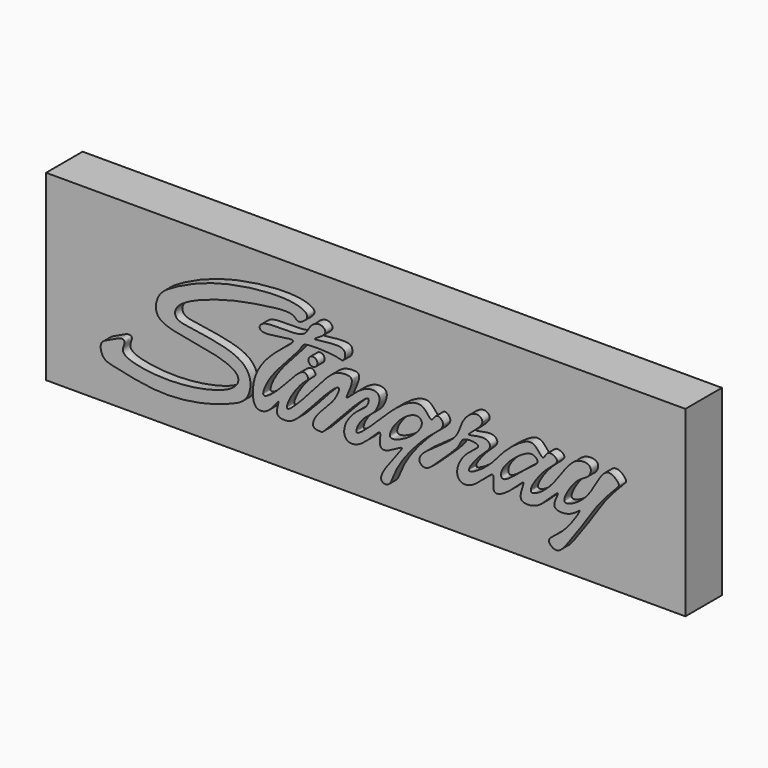
from build123d import *

# Parameters (mm, degrees)
F1_W     = 177.8
F1_H     = 50.8
F2_DEPTH = 12.7
F3_T     = -2.54
F0_R     = 1.2413300558
F4_DEPTH = 2.54


with BuildPart() as f2:
    # F1 (on Front) → F2 (new body)
    with BuildSketch(Plane.XZ):
        with Locations((-88.9, 25.4)):
            Rectangle(F1_W, F1_H)
    extrude(amount=-F2_DEPTH)

    # F3
    f3_openings = [f2.faces().sort_by_distance(p)[0] for p in [
        (-88.9, 12.7, 25.4),
    ]]
    offset(amount=F3_T, openings=f3_openings)

    # F0 (on Front) → F4 (join)
    with BuildSketch(Plane.XZ):
        with BuildLine():
            add(Edge.make_bspline(
                [(-104.3626591563, 39.3112227321), (-103.7464901324, 39.7168534696), (-102.1441748093, 41.3315299913), (-107.9765028263, 44.2340611148), (-127.2818595136, 42.2160057549), (-139.7192136137, 36.5066004827), (-144.8045294703, 33.1999416806), (-145.8068486745, 27.7119328448), (-140.9929955038, 24.944924972), (-129.4711551531, 23.8536356186), (-121.6287334048, 20.8410199958), (-122.8097692008, 16.4656558472), (-131.8171462781, 13.2657467953), (-144.6500010629, 12.2341874259), (-155.7603288756, 14.5867461516), (-153.6289203084, 17.8270999649), (-154.4783863539, 19.215515211), (-157.9759955095, 17.3326092607), (-161.1267632531, 16.1032587025), (-160.1215000899, 11.8792390024), (-156.2220330164, 11.0881015403), (-143.8786655043, 8.2067439366), (-131.536304938, 10.0620059008), (-124.6698706344, 12.482464089), (-119.8691279813, 14.5192178493), (-118.31060007, 19.6662353054), (-120.6177220982, 24.141546957), (-126.9275022893, 26.3340211868), (-134.564236949, 27.4227227725), (-140.3096267602, 28.14706889), (-139.6932832256, 33.3466244693), (-123.8679028515, 38.4782887729), (-115.9861533764, 39.4784040019), (-107.261685971, 40.886222851), (-105.92619372, 38.6244477757), (-104.8777434282, 38.9721371809), (-104.3626591563, 39.3112227321)],
                knots=[0, 0, 0, 0, 0.0171606316, 0.0420505679, 0.0953744946, 0.1402214985, 0.1683153916, 0.1931673735, 0.2187451545, 0.2606329857, 0.2928519595, 0.3127655675, 0.3480762812, 0.3936379312, 0.4292316559, 0.4473490645, 0.458966661, 0.481705197, 0.502842128, 0.5239459925, 0.5463735712, 0.5887403643, 0.6315346651, 0.6635040396, 0.6896314381, 0.7154568438, 0.7405684662, 0.7707506943, 0.8050652312, 0.8311203103, 0.8519324373, 0.899050446, 0.9360709618, 0.9692248828, 0.985654632, 1, 1, 1, 1], degree=3))
        make_face()
        with BuildLine():
            add(Edge.make_bspline(
                [(-107.1714684367, 33.781375736), (-108.0759665708, 34.2114106275), (-116.9034581131, 31.6463628818), (-116.1879786537, 36.7300440936), (-103.5801645612, 34.4122681368), (-102.7662659737, 39.1105459238), (-99.2846073384, 40.724904815), (-97.0376040766, 38.0737770326), (-103.1547800894, 35.4891130282), (-96.9055004938, 36.6116653895), (-92.0045486316, 36.6859619502), (-92.9103005474, 32.9324721379), (-94.5995950275, 33.9432445726), (-104.2736950267, 34.4730907211), (-104.5703866711, 32.4460956503), (-111.9160322788, 25.0468244591), (-114.8256760159, 20.4924289781), (-115.9680378699, 16.5042928682), (-110.3929619387, 20.4204478467), (-104.2962252419, 28.6871414323), (-102.5484371755, 25.5414285907), (-103.7491840528, 25.007051437), (-107.4727226073, 20.9443095212), (-110.1286126777, 14.0896504564), (-101.8509064005, 22.8054505775), (-96.4187111382, 29.5229822501), (-93.4647937461, 30.2683219283), (-89.2578403101, 30.2828796563), (-93.510842446, 23.0164441308), (-89.6708302626, 26.8170167804), (-86.2721873199, 29.2538981307), (-82.2648125771, 28.5168412918), (-83.8086168939, 23.9035160996), (-86.1264424442, 22.2399367183), (-88.71192535, 19.9971666802), (-90.4983557146, 14.9620386201), (-82.1999852748, 22.9538072335), (-76.7783775856, 28.4336057629), (-70.821526044, 30.5995250418), (-68.5719716119, 25.5324480606), (-67.2872175811, 29.3298290772), (-64.0122100212, 26.3768635124), (-70.228615982, 22.5426389445), (-78.9283920713, 12.3253882028), (-79.9013294185, 6.2615464124), (-85.0375243269, 7.763928666), (-73.5685706285, 19.8560775327), (-80.1758092903, 15.3055338167), (-83.0655149775, 14.8232247784), (-82.8782663149, 17.6503768455), (-82.6343323038, 20.4155385127), (-88.1048803826, 13.3465511967), (-93.0788503917, 13.7643781627), (-92.9483394205, 18.5806482767), (-89.0608027112, 22.6673545559), (-86.3885021297, 23.9852236654), (-85.0514010065, 29.4367945227), (-98.604857657, 13.8030093969), (-99.2141760808, 13.9659801533), (-102.0837354138, 13.9453759636), (-100.8664808015, 18.0454946505), (-95.7684232878, 21.840915773), (-93.2616821569, 27.7966340636), (-98.8348362072, 23.0683670913), (-106.137020859, 14.005454883), (-109.1758213268, 13.3559366256), (-112.3649277602, 13.8004196637), (-110.1988360947, 19.5657613929), (-113.5177063309, 13.6925179389), (-117.9910259651, 13.1885438883), (-118.512306069, 18.4279775234), (-117.1381563709, 23.9584432762), (-112.0456782971, 29.6296602451), (-106.4673284661, 33.4465991959), (-107.1714684367, 33.781375736)],
                knots=[0, 0, 0, 0, 0.0196093592, 0.0284369772, 0.0505017225, 0.063441221, 0.0751677071, 0.0845017669, 0.0970491425, 0.1099764822, 0.1241237325, 0.1340040389, 0.1423642756, 0.1623517728, 0.1711130869, 0.1921464629, 0.2088030677, 0.2185155077, 0.2336495218, 0.2540768966, 0.2625319716, 0.268951715, 0.2852937829, 0.2985814891, 0.3178259682, 0.3383765372, 0.3498303255, 0.3603346856, 0.3749852923, 0.3857700141, 0.4004480199, 0.4114675985, 0.4243722694, 0.4358435223, 0.4486723363, 0.4592977745, 0.4782949896, 0.4986679148, 0.5135187261, 0.5256899976, 0.5352036408, 0.54501703, 0.5611662827, 0.5863447971, 0.601250369, 0.6107596468, 0.632612518, 0.6451769791, 0.655808673, 0.6660713775, 0.6734760449, 0.6911883448, 0.7042492866, 0.7170117372, 0.7326716779, 0.7447352377, 0.7533416311, 0.7807996771, 0.787644086, 0.7967924664, 0.8082287092, 0.8261542058, 0.8391351362, 0.8534428742, 0.8768608204, 0.8883146074, 0.8982566604, 0.9099433295, 0.923202109, 0.9357246816, 0.9492661038, 0.9650536351, 0.9847343703, 1, 1, 1, 1], degree=3))
        make_face()
        with BuildLine():
            add(Edge.make_bspline(
                [(-79.9611136317, 18.859570846), (-80.5972341313, 19.4628371611), (-78.207160256, 24.0585435322), (-72.7817269102, 27.3423679841), (-70.455317797, 25.1037694355), (-73.7246130314, 20.5930821086), (-79.2579940503, 18.1927658), (-79.9611136317, 18.859570846)],
                knots=[0, 0, 0, 0, 0.2051884148, 0.4360639735, 0.5603256916, 0.7732002153, 1, 1, 1, 1], degree=3))
        make_face(mode=Mode.SUBTRACT)
        with Locations((-101.5538424253, 30.3581394255)):
            Circle(F0_R)
        with BuildLine():
            add(Edge.make_bspline(
                [(-71.8857795, 16.489636153), (-71.2105423118, 18.750404932), (-60.8124499585, 23.7001083857), (-60.7229412283, 29.1792405996), (-56.4212019482, 33.3160571384), (-52.8272837453, 30.4976450644), (-61.1182581878, 25.2385901982), (-53.6473467985, 27.9621627373), (-51.4267541217, 25.3047779038), (-55.2542172502, 22.803252545), (-60.210489919, 15.865544608), (-52.3425594341, 20.5414405892), (-48.9968071323, 25.3893194453), (-44.1596566164, 29.3836767927), (-39.8898251644, 31.2122933276), (-37.4607470962, 26.2842176195), (-36.5013439217, 30.2740617848), (-32.0933081958, 28.0946094985), (-37.4002852503, 25.3461170526), (-43.3740304328, 15.9252063614), (-34.2949247229, 21.0305154527), (-29.8498049576, 30.9474726389), (-23.7072285882, 30.325337836), (-24.6201579526, 26.7760428567), (-28.1581412165, 25.8653687813), (-31.7427700609, 20.2819831212), (-31.6866467667, 17.7650733739), (-24.0200387973, 21.4510527275), (-20.6829552958, 32.3523884334), (-15.9751104428, 27.9414066807), (-17.0770015109, 26.9319731914), (-22.2718338876, 21.398950418), (-24.8305635989, 17.1367926243), (-30.1177024267, 9.6786138441), (-33.506912619, 5.106169706), (-37.2544510803, 8.2885613766), (-31.8136026287, 10.5312530889), (-25.9277462628, 19.7471757988), (-29.3379804757, 16.1573090983), (-33.3530235333, 15.6219194539), (-35.054941846, 17.1395052649), (-32.2484356336, 21.8445969185), (-36.6511709407, 17.3788520885), (-39.3823481451, 14.733130798), (-45.2767969683, 14.5321103176), (-41.4928225748, 22.1022721089), (-46.7493711992, 16.036629954), (-52.3811411267, 13.2775967239), (-50.1091737502, 21.6996819788), (-56.46339486, 14.0246414), (-60.7082595771, 13.792948096), (-62.0075118597, 16.8164380115), (-59.5633053457, 21.9208365822), (-53.5108759906, 25.0805246857), (-60.1364650618, 25.6943720883), (-60.6430327099, 22.5649413835), (-65.9560917383, 18.1047616278), (-70.2460796038, 13.3149159188), (-72.1811284863, 15.5007750849), (-71.8857795, 16.489636153)],
                knots=[0, 0, 0, 0, 0.0288126386, 0.0484140127, 0.0664966451, 0.0789912756, 0.0981528788, 0.1151194113, 0.1274512795, 0.1447777219, 0.1638129171, 0.1829339346, 0.2045752596, 0.2251637052, 0.2413158227, 0.2564127564, 0.2685652608, 0.2817525437, 0.2999024988, 0.3226315063, 0.3425824692, 0.3704808381, 0.3866896417, 0.3992160693, 0.4149717644, 0.4359899285, 0.4451744816, 0.4669376381, 0.492530533, 0.5080727041, 0.5165623338, 0.5386964546, 0.5583319897, 0.5835072584, 0.6015476278, 0.6145689002, 0.6332799436, 0.6568334001, 0.669103141, 0.685966756, 0.6966710277, 0.7110754883, 0.7267347861, 0.7448832518, 0.7606344025, 0.7773228045, 0.7959642053, 0.8133366409, 0.8293713882, 0.8503241077, 0.8666260992, 0.8793900557, 0.899328682, 0.916389136, 0.9322528821, 0.9457653735, 0.9678863584, 0.9873973416, 1, 1, 1, 1], degree=3))
        make_face()
        with BuildLine():
            add(Edge.make_bspline(
                [(-48.7130954862, 18.859570846), (-49.3010668646, 18.954646885), (-49.6075025395, 21.6728797333), (-43.2768466141, 27.125129773), (-40.2376297385, 27.8132269069), (-38.2535065629, 25.9283193275), (-42.2197768257, 23.8097459414), (-47.53793873, 18.6695458656), (-48.7130954862, 18.859570846)],
                knots=[0, 0, 0, 0, 0.1174379302, 0.3556854008, 0.4973132475, 0.5998781813, 0.7652811307, 1, 1, 1, 1], degree=3))
        make_face(mode=Mode.SUBTRACT)
    extrude(amount=F4_DEPTH)


solid = f2.part
